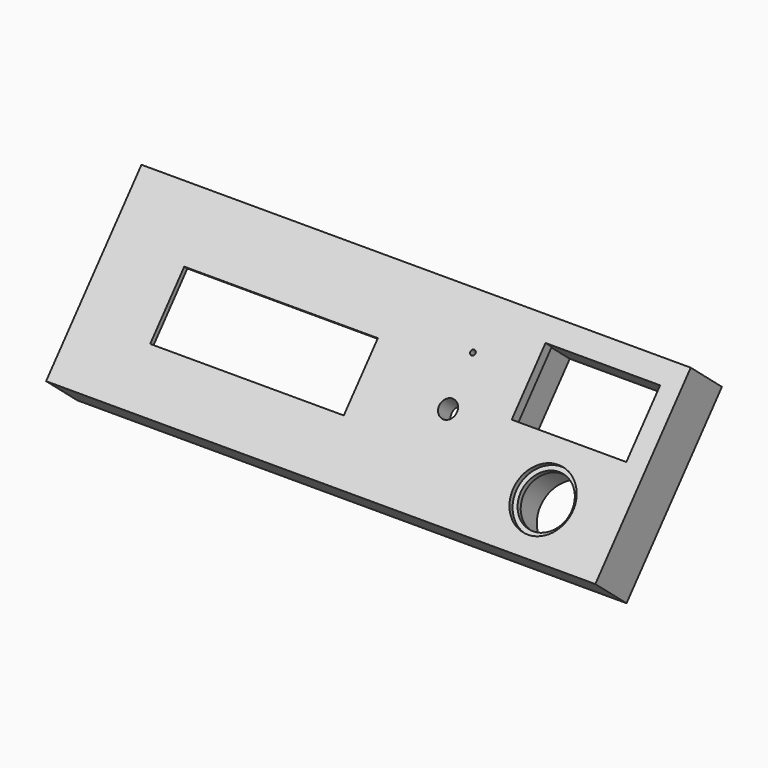
from build123d import *

# Parameters (mm, degrees)
F3_W      = 215.6
F3_H      = 72.8
F4_DEPTH  = 20
F5_W      = 76
F5_H      = 26
F5_R      = 3.5
F6_DEPTH  = 55.8480022096
F7_R      = 1
F8_DEPTH  = 18
F9_W      = 99.2
F9_H      = 41.8
F10_DEPTH = 18
F11_R     = 6
F11_R_2   = 1
F12_DEPTH = 14
F13_DEPTH = 55.8480022096
F14_W     = 18
F14_H     = 13
F15_DEPTH = 12
F16_W     = 8
F16_H     = 8
F17_DEPTH = 8
F18_W     = 101.2
F18_H     = 63.8
F19_DEPTH = 9
F20_W     = 46.2
F20_H     = 5
F22_DEPTH = 5
F23_W     = 152.6
F23_H     = 65.8
F24_DEPTH = 4
F25_W     = 45
F25_H     = 25.8
F26_DEPTH = 55.8480022096
F27_W     = 48
F27_H     = 25.8
F28_DEPTH = 16
F29_R     = 10
F30_DEPTH = 55.8480022096
F29_R_2   = 11.75
F31_DEPTH = 2
F32_R     = 12
F33_DEPTH = 16
F34_W     = 211.6
F34_H     = 68.8
F35_DEPTH = 2


with BuildPart() as f4:
    # F3 (on face) → F4 (new body)
    with BuildSketch(Plane(origin=(0, -4.9240387651, 4.1317591117), x_dir=(-1, 0, 0), z_dir=(0, 0.7660444431, -0.6427876097))):
        with Locations((-33.6366042773, 23.835632431)):
            Rectangle(F3_W, F3_H)
    extrude(amount=F4_DEPTH)

    # F5 (on face) → F6 (cut, through all)
    with BuildSketch(Plane(origin=(0, -4.9240387651, 4.1317591117), x_dir=(1, 0, 0), z_dir=(0, -0.7660444431, 0.6427876097))):
        with Locations((-6.5633957227, 22.335632431)):
            Rectangle(F5_W, F5_H)
        with Locations((65.6750798225, 22.335632431)):
            Circle(F5_R)
    extrude(amount=-F6_DEPTH, mode=Mode.SUBTRACT)

    # F7 (on face) → F8 (cut, through all)
    with BuildSketch(Plane(origin=(0, 10.3968500973, -8.7239930821), x_dir=(-1, 0, 0), z_dir=(0, 0.7660444431, -0.6427876097))):
        with Locations((-77.2366042773, 52.835632431)):
            Circle(F7_R)
        with Locations((-77.2366042773, 2.835632431)):
            Circle(F7_R)
        with Locations((66.7633957227, 2.835632431)):
            Circle(F7_R)
        with Locations((66.7633957227, 52.835632431)):
            Circle(F7_R)
    extrude(amount=-F8_DEPTH, mode=Mode.SUBTRACT)

    # F9 (on face) → F10 (cut, through all)
    with BuildSketch(Plane(origin=(0, 10.3968500973, -8.7239930821), x_dir=(-1, 0, 0), z_dir=(0, 0.7660444431, -0.6427876097))):
        with Locations((6.5633957227, 22.335632431)):
            Rectangle(F9_W, F9_H)
    extrude(amount=-F10_DEPTH, mode=Mode.SUBTRACT)

    # F11 (on face) → F12 (cut, through all)
    with BuildSketch(Plane(origin=(0, 10.3968500973, -8.7239930821), x_dir=(-1, 0, 0), z_dir=(0, 0.7660444431, -0.6427876097))):
        with Locations((-65.6750798225, 41.335632431)):
            Circle(F11_R)
        with Locations((-65.6750798225, 41.335632431)):
            Circle(F11_R_2, mode=Mode.SUBTRACT)
        with Locations((-65.6750798225, 41.335632431)):
            Circle(F11_R_2)
    extrude(amount=-F12_DEPTH, mode=Mode.SUBTRACT)

    # F11 (on face) → F13 (cut, through all)
    with BuildSketch(Plane(origin=(0, 10.3968500973, -8.7239930821), x_dir=(-1, 0, 0), z_dir=(0, 0.7660444431, -0.6427876097))):
        with Locations((-65.6750798225, 41.335632431)):
            Circle(F11_R_2)
    extrude(amount=-F13_DEPTH, mode=Mode.SUBTRACT)

    # F14 (on face) → F15 (cut, through all)
    with BuildSketch(Plane(origin=(0, 10.3968500973, -8.7239930821), x_dir=(-1, 0, 0), z_dir=(0, 0.7660444431, -0.6427876097))):
        with Locations((-65.6750798225, 22.335632431)):
            Rectangle(F14_W, F14_H)
    extrude(amount=-F15_DEPTH, mode=Mode.SUBTRACT)

    # F16 (on face) → F17 (cut, through all)
    with BuildSketch(Plane(origin=(0, 10.3968500973, -8.7239930821), x_dir=(-1, 0, 0), z_dir=(0, 0.7660444431, -0.6427876097))):
        with Locations((-65.6750798225, 5.335632431)):
            Rectangle(F16_W, F16_H)
    extrude(amount=-F17_DEPTH, mode=Mode.SUBTRACT)

    # F18 (on face) → F19 (cut, through all)
    with BuildSketch(Plane(origin=(0, 10.3968500973, -8.7239930821), x_dir=(-1, 0, 0), z_dir=(0, 0.7660444431, -0.6427876097))):
        with Locations((6.5633957227, 22.335632431)):
            Rectangle(F18_W, F18_H)
    extrude(amount=-F19_DEPTH, mode=Mode.SUBTRACT)

    # F20 (on face) → F22 (cut)
    with BuildSketch(Plane(origin=(0, 3.5024501092, -2.9389045949), x_dir=(-1, 0, 0), z_dir=(0, 0.7660444431, -0.6427876097))):
        with Locations((26.0633957227, 51.735632431)):
            Rectangle(F20_W, F20_H)
    extrude(amount=-F22_DEPTH, mode=Mode.SUBTRACT)

    # F23 (on face) → F24 (cut, through all)
    with BuildSketch(Plane(origin=(0, 10.3968500973, -8.7239930821), x_dir=(-1, 0, 0), z_dir=(0, 0.7660444431, -0.6427876097))):
        with Locations((-6.1366042773, 23.335632431)):
            Rectangle(F23_W, F23_H)
    extrude(amount=-F24_DEPTH, mode=Mode.SUBTRACT)

    # F25 (on face) → F26 (cut, through all)
    with BuildSketch(Plane(origin=(0, -4.9240387651, 4.1317591117), x_dir=(-1, 0, 0), z_dir=(0, 0.7660444431, -0.6427876097))):
        with Locations((-111.2485080957, 38.9576355718)):
            Rectangle(F25_W, F25_H)
    extrude(amount=F26_DEPTH, mode=Mode.SUBTRACT)

    # F27 (on face) → F28 (cut, through all)
    with BuildSketch(Plane(origin=(0, 10.3968500973, -8.7239930821), x_dir=(-1, 0, 0), z_dir=(0, 0.7660444431, -0.6427876097))):
        with Locations((-111.2485080957, 38.9576355718)):
            Rectangle(F27_W, F27_H)
    extrude(amount=-F28_DEPTH, mode=Mode.SUBTRACT)

    # F29 (on face) → F30 (cut, through all)
    with BuildSketch(Plane(origin=(0, -4.9240387651, 4.1317591117), x_dir=(-1, 0, 0), z_dir=(0, 0.7660444431, -0.6427876097))):
        with Locations((-111.2485080957, 6.2527651899)):
            Circle(F29_R)
    extrude(amount=F30_DEPTH, mode=Mode.SUBTRACT)

    # F29 (on face) → F31 (cut)
    with BuildSketch(Plane(origin=(0, -4.9240387651, 4.1317591117), x_dir=(-1, 0, 0), z_dir=(0, 0.7660444431, -0.6427876097))):
        with Locations((-111.2485080957, 6.2527651899)):
            Circle(F29_R_2)
        with Locations((-111.2485080957, 6.2527651899)):
            Circle(F29_R, mode=Mode.SUBTRACT)
    extrude(amount=F31_DEPTH, mode=Mode.SUBTRACT)

    # F32 (on face) → F33 (cut, through all)
    with BuildSketch(Plane(origin=(0, 10.3968500973, -8.7239930821), x_dir=(-1, 0, 0), z_dir=(0, 0.7660444431, -0.6427876097))):
        with Locations((-111.2485080957, 6.2527651899)):
            Circle(F32_R)
    extrude(amount=-F33_DEPTH, mode=Mode.SUBTRACT)

    # F34 (on face) → F35 (cut)
    with BuildSketch(Plane(origin=(0, 10.3968500973, -8.7239930821), x_dir=(-1, 0, 0), z_dir=(0, 0.7660444431, -0.6427876097))):
        with Locations((-33.6366042773, 23.835632431)):
            Rectangle(F34_W, F34_H)
    extrude(amount=-F35_DEPTH, mode=Mode.SUBTRACT)


solid = f4.part
